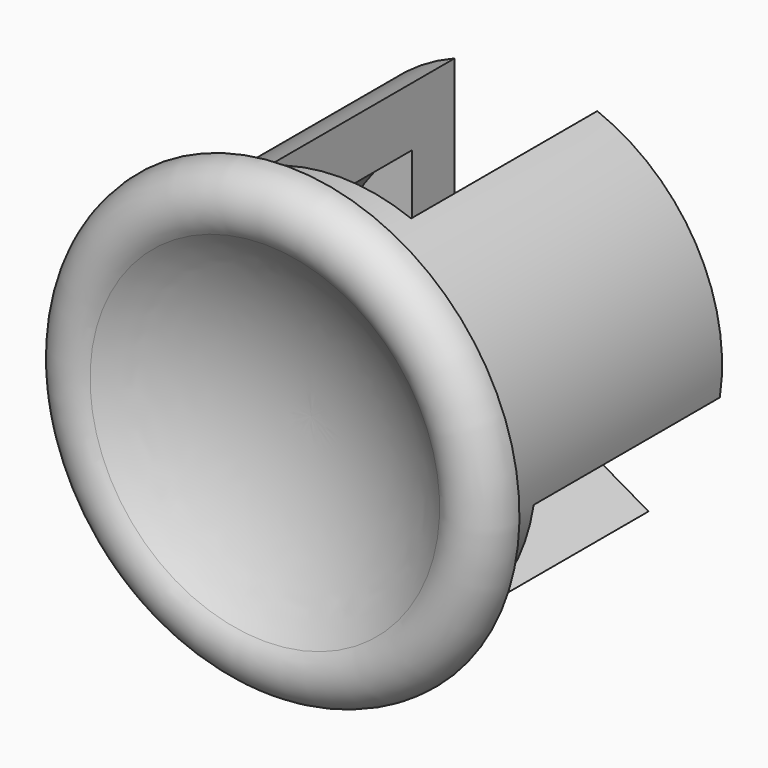
from build123d import *

# Parameters (mm, degrees)
F4_DEPTH = 6.526279


with BuildPart() as f2:
    # F1 (on Right) → F2 (revolve)
    with BuildSketch(Plane.YZ):
        with BuildLine():
            ThreePointArc((-9.153209, 4.902089), (-7.943635, 2.582507), (-7.526279, 0))
            Line((-7.526279, 0), (-6.526279, 0))
            Line((-6.526279, 0), (-6.526279, 4))
            Line((-6.526279, 4), (-1.5, 4))
            Line((-1.5, 4), (-1.5, 0))
            Line((-1.5, 0), (0, 0))
            Line((0, 0), (0, 5.5))
            Line((0, 5.5), (-8.351647, 5.5))
            Line((-8.351647, 5.5), (-8.351647, 6.5))
            ThreePointArc((-8.351647, 6.5), (-9.24549, 5.94838), (-9.153209, 4.902089))
        make_face()
    revolve(axis=Axis((0, 0, 0), (0, 1, 0)))

    # F3 (on face) → F4 (cut, through all)
    with BuildSketch(Plane(origin=(0, 0, 0), x_dir=(-1, 0, 0), z_dir=(0, 1, 0))):
        with BuildLine():
            ThreePointArc((2, 5.5), (0, 7.5), (-2, 5.5))
            Line((-2, 5.5), (-2, 1.154701))
            Line((-2, 1.154701), (-5.76314, -1.017949))
            ThreePointArc((-5.76314, -1.017949), (-6.495191, -3.75), (-3.76314, -4.482051))
            Line((-3.76314, -4.482051), (0, -2.309401))
            Line((0, -2.309401), (3.76314, -4.482051))
            ThreePointArc((3.76314, -4.482051), (6.495191, -3.75), (5.76314, -1.017949))
            Line((5.76314, -1.017949), (2, 1.154701))
            Line((2, 1.154701), (2, 5.5))
        make_face()
    extrude(amount=-F4_DEPTH, mode=Mode.SUBTRACT)


solid = f2.part
